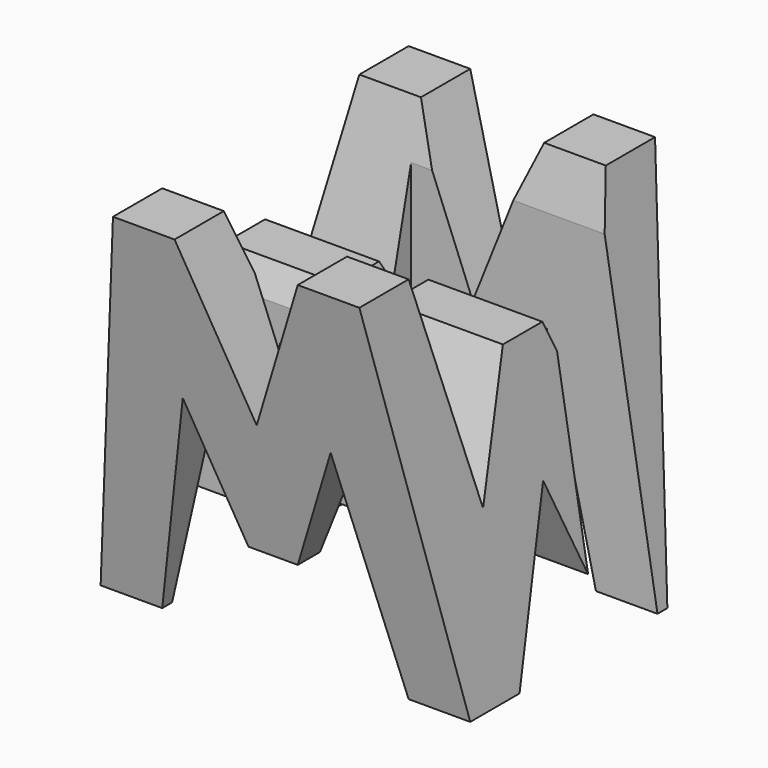
from build123d import *

# Parameters (mm, degrees)
F0_W      = 38.1
F0_H      = 38.1
F1_DEPTH  = 38.1
F6_DEPTH  = 38.1
F8_DEPTH  = 38.1
F9_W      = 25.4
F9_H      = 7.62
F10_DEPTH = 38.1


with BuildPart() as f1:
    # F0 (on Front) → F1 (new body)
    with BuildSketch(Plane.XZ):
        with Locations((19.05, 19.05)):
            Rectangle(F0_W, F0_H)
    extrude(amount=F1_DEPTH)

    # F5 (on offset) → F6 (cut)
    with BuildSketch(Plane.YZ.offset(38.1)):
        Polygon((-11.43, 16.449932), (-6.35, 38.1), (-31.75, 38.1), (-26.67, 16.449932), (-21.59, 28.575), (-16.51, 28.575), align=None)
        Polygon((-6.35, 0), (0, 0), (0, 38.1), align=None)
        Polygon((-19.05, 0), (-12.7, 0), (-19.05, 15.875), (-25.4, 0), align=None)
        Polygon((-31.75, 0), (-38.1, 38.1), (-38.1, 0), align=None)
    extrude(amount=-F6_DEPTH, mode=Mode.SUBTRACT)

    # F7 (on offset) → F8 (cut)
    with BuildSketch(Plane.XZ.offset(38.1)):
        Polygon((11.43, 22.225), (6.35, 0), (31.75, 0), (26.67, 22.225), (21.59, 9.525), (16.51, 9.525), align=None)
        Polygon((25.4, 38.1), (12.7, 38.1), (19.05, 22.225), align=None)
        Polygon((31.75, 38.1), (38.1, 0), (38.1, 38.1), align=None)
        Polygon((0, 38.1), (0, 0), (6.35, 38.1), align=None)
    extrude(amount=-F8_DEPTH, mode=Mode.SUBTRACT)

    # F9 (on offset) → F10 (cut)
    with BuildSketch(Plane.XY.offset(38.1)):
        with Locations((12.7, -26.67)):
            Rectangle(F9_W, F9_H)
        with Locations((25.4, -11.43)):
            Rectangle(F9_W, F9_H)
    extrude(amount=-F10_DEPTH, mode=Mode.SUBTRACT)


solid = f1.part
